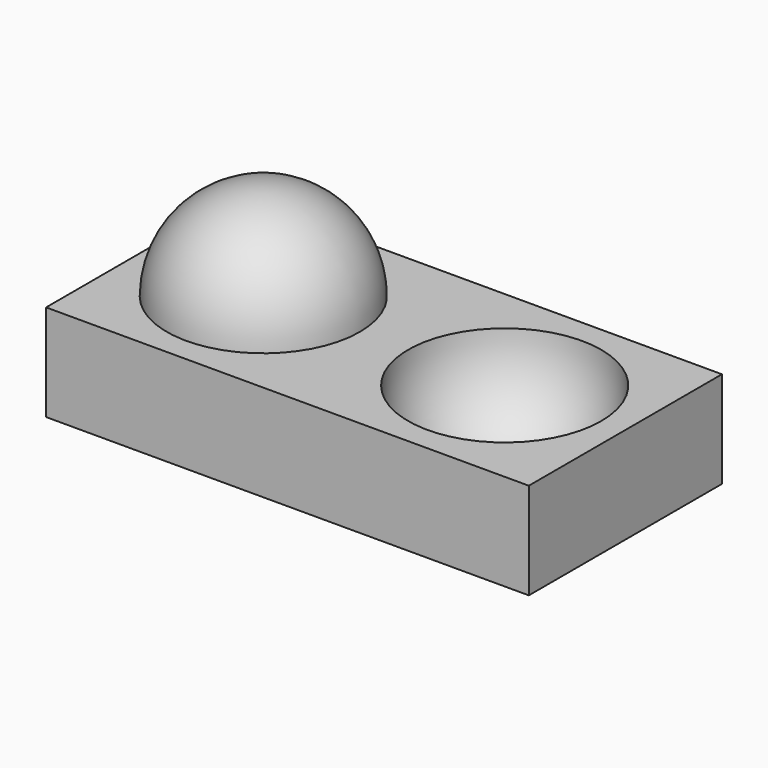
from build123d import *

# Parameters (mm, degrees)
SKETCH_W  = 100
SKETCH_H  = 50
PAD_DEPTH = 20


with BuildPart() as part:
    # Sketch → Pad (new body)
    with BuildSketch(Plane.XY):
        Rectangle(SKETCH_W, SKETCH_H)
    extrude(amount=PAD_DEPTH)

    # Sphere → Sphere (revolve)
    with BuildSketch(Plane(origin=(-25, 0, 20), x_dir=(1, 0, 0), z_dir=(0, -1, 0))):
        with BuildLine():
            ThreePointArc((0, -20), (20, 0), (0, 20))
            Line((0, 20), (0, -20))
        make_face()
    revolve(axis=Axis((-25, 0, 20), (0, 0, 1)))

    # Sphere001 → Sphere001 (revolve, cut)
    with BuildSketch(Plane(origin=(25, 0, 20), x_dir=(1, 0, 0), z_dir=(0, -1, 0))):
        with BuildLine():
            ThreePointArc((0, -20), (20, 0), (0, 20))
            Line((0, 20), (0, -20))
        make_face()
    revolve(axis=Axis((25, 0, 20), (0, 0, 1)), mode=Mode.SUBTRACT)


solid = part.part
